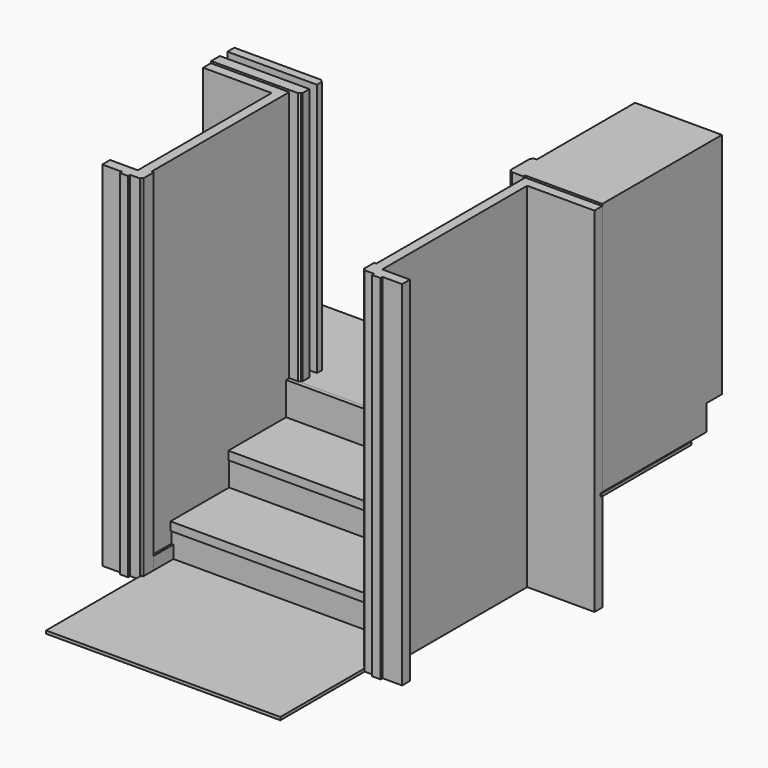
from build123d import *

# Parameters (mm, degrees)
F1_DEPTH  = 600
F0_W      = 577
F0_H      = 15
F2_DEPTH  = 1000
F4_DEPTH  = 1300
F3_W      = 415
F3_H      = 430
F3_H_2    = 100
F6_DEPTH  = 1170
F9_DEPTH  = 1810
F8_W      = 11
F8_H      = 355
F10_DEPTH = 80
F8_H_2    = 295
F12_DEPTH = 1200
F11_W     = 20
F11_H     = 168.3333333333
F14_DEPTH = 1199
F11_W_2   = 19
F11_H_2   = 125.3333333333


with BuildPart() as f1:
    # F0 (on Right) → F1 (new body, symmetric)
    with BuildSketch(Plane.YZ):
        Polygon((-537, -520), (-537, -505), (-557, -505), (-1537, -505), (-1537, -520), align=None)
    extrude(amount=F1_DEPTH, both=True)


with BuildPart() as f2:
    # F0 (on Right) → F2 (new body, symmetric)
    with BuildSketch(Plane.YZ):
        with Locations((308.5, -7.5)):
            Rectangle(F0_W, F0_H)
    extrude(amount=F2_DEPTH, both=True)


with BuildPart() as f4:
    # F3 (on face) → F4 (new body)
    with BuildSketch(Plane.XY):
        Polygon((-600, 20), (-556, 20), (-546, 28), (-546, 31), (-541, 31), (-541, 76), (-1000, 76), (-1000, 20), align=None)
    extrude(amount=F4_DEPTH)


with BuildPart() as f4b:
    # F3 (on face) → F4, piece 2 (new body)
    with BuildSketch(Plane.XY):
        Polygon((-1000, 168), (-1000, 124), (-541, 124), (-541, 157), (-546, 157), (-546, 160), (-556, 168), (-600, 168), align=None)
    extrude(amount=F4_DEPTH)


with BuildPart() as f4c:
    # F3 (on face) → F4, piece 3 (new body)
    with BuildSketch(Plane.XY):
        Polygon((530, 31), (600, 31), (995, 31), (995, 167), (580, 167), (540, 167), (530, 164), (530, 156), (525, 156), (525, 31), align=None)
        with Locations((787.5, 382)):
            Rectangle(F3_W, F3_H)
        with Locations((787.5, 647)):
            Rectangle(F3_W, F3_H_2)
        Polygon((540, 20), (600, 20), (600, 31), (530, 31), (530, 28), align=None)
    extrude(amount=F4_DEPTH)

    # F5 (on face) → F6 (join)
    with BuildSketch(Plane.XY.offset(1300)):
        Polygon((550, 797), (550, 167), (580, 167), (580, 697), (995, 697), (995, 797), align=None)
    extrude(amount=-F6_DEPTH)


with BuildPart() as f9:
    # F8 (on offset) → F9 (new body)
    with BuildSketch(Plane(origin=(0, 0, -520), x_dir=(1, 0, 0), z_dir=(0, 0, -1))):
        Polygon((600, -31), (995, -31), (995, 19), (650, 19), (650, 947), (792, 947), (792, 997), (692, 997), (692, 1010), (649, 1010), (649, 997), (599, 997), (599, 994), (589, 987), (589, 922), (600, 922), (600, 567), align=None)
    extrude(amount=-F9_DEPTH)


with BuildPart() as f9b:
    # F8 (on offset) → F9, piece 2 (new body)
    with BuildSketch(Plane(origin=(0, 0, -520), x_dir=(1, 0, 0), z_dir=(0, 0, -1))):
        Polygon((-1001, 30), (-1001, -20), (-600, -20), (-600, 567), (-600, 862), (-589, 862), (-589, 927), (-599, 934), (-599, 937), (-649, 937), (-649, 950), (-692, 950), (-692, 937), (-792, 937), (-792, 887), (-650, 887), (-650, 30), align=None)
    extrude(amount=-F9_DEPTH)


with BuildPart() as f10:
    # F8 (on offset) → F10 (new body)
    with BuildSketch(Plane(origin=(0, 0, -520), x_dir=(1, 0, 0), z_dir=(0, 0, -1))):
        with Locations((594.5, 744.5)):
            Rectangle(F8_W, F8_H)
    extrude(amount=-F10_DEPTH)


with BuildPart() as f10b:
    # F8 (on offset) → F10, piece 2 (new body)
    with BuildSketch(Plane(origin=(0, 0, -520), x_dir=(1, 0, 0), z_dir=(0, 0, -1))):
        with Locations((-594.5, 714.5)):
            Rectangle(F8_W, F8_H_2)
    extrude(amount=-F10_DEPTH)


with BuildPart() as f12:
    # F11 (on face) → F12 (new body)
    with BuildSketch(Plane.YZ.offset(-600)):
        Polygon((-370.2296350365, -211.3333333333), (-365.2296350365, -211.3333333333), (-346.2296350365, -211.3333333333), (-19, -211.3333333333), (-19, -168.3333333333), (-370.2296350365, -168.3333333333), align=None)
        Polygon((0, -168.3333333333), (-19, -168.3333333333), (-19, -211.3333333333), (20, -211.3333333333), (20, -168.3333333333), align=None)
    extrude(amount=F12_DEPTH)


with BuildPart() as f12b:
    # F11 (on face) → F12, piece 2 (new body)
    with BuildSketch(Plane.YZ.offset(-600)):
        Polygon((-735.4592700729, -379.6666666667), (-716.4592700729, -379.6666666667), (-365.2296350365, -379.6666666667), (-365.2296350365, -336.6666666667), (-740.4592700729, -336.6666666667), (-740.4592700729, -379.6666666667), align=None)
    extrude(amount=F12_DEPTH)

    # F13: cut F10b, F10
    add(f10b.part, mode=Mode.SUBTRACT)
    add(f10.part, mode=Mode.SUBTRACT)


with BuildPart() as f14:
    # F11 (on face) → F14 (new body)
    with BuildSketch(Plane.YZ.offset(-600)):
        with Locations((10, -84.1666666667)):
            Rectangle(F11_W, F11_H)
    extrude(amount=F14_DEPTH)


with BuildPart() as f14b:
    # F11 (on face) → F14, piece 2 (new body)
    with BuildSketch(Plane.YZ.offset(-600)):
        Polygon((-365.2296350365, -336.6666666667), (-365.2296350365, -379.6666666667), (-346.2296350365, -379.6666666667), (-346.2296350365, -211.3333333333), (-365.2296350365, -211.3333333333), align=None)
    extrude(amount=F14_DEPTH)


with BuildPart() as f14c:
    # F11 (on face) → F14, piece 3 (new body)
    with BuildSketch(Plane.YZ.offset(-600)):
        with Locations((-725.9592700729, -442.3333333333)):
            Rectangle(F11_W_2, F11_H_2)
    extrude(amount=F14_DEPTH)


solid = Compound([f1.part, f2.part, f4.part, f4b.part, f4c.part, f9.part, f9b.part, f10.part, f10b.part, f12.part, f12b.part, f14.part, f14b.part, f14c.part])
